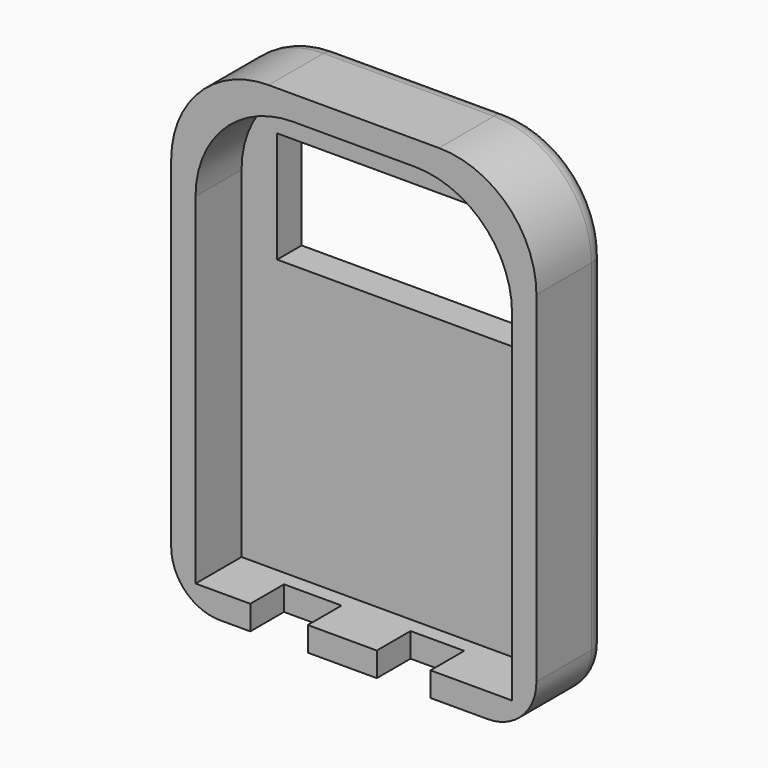
from build123d import *

# Parameters (mm, degrees)
F0_W      = 95.25
F0_H      = 127
F1_DEPTH  = 23
F2_W      = 82.55
F2_H      = 114.3
F3_DEPTH  = 15
F4_W      = 64
F4_H      = 29
F5_DEPTH  = 25.4
F6_R      = 25.4
F7_R      = 12.7
F8_R      = 5.08
F9_W      = 14
F9_H      = 11
F10_DEPTH = 12.7
F11_W     = 15
F11_H     = 11
F12_DEPTH = 12.7


with BuildPart() as f1:
    # F0 (on Front) → F1 (new body)
    with BuildSketch(Plane.XZ):
        with Locations((0, 3.175)):
            Rectangle(F0_W, F0_H)
    extrude(amount=F1_DEPTH)

    # F2 (on face) → F3 (cut)
    with BuildSketch(Plane.XZ.offset(23)):
        with Locations((0, 3.175)):
            Rectangle(F2_W, F2_H)
    extrude(amount=-F3_DEPTH, mode=Mode.SUBTRACT)

    # F4 (on face) → F5 (cut)
    with BuildSketch(Plane.XZ.offset(8)):
        with Locations((0, 31.825)):
            Rectangle(F4_W, F4_H)
    extrude(amount=-F5_DEPTH, mode=Mode.SUBTRACT)

    # F6
    f6_edges = [f1.edges().sort_by_distance(p)[0] for p in [
        (-47.625, -11.5, 66.675),
        (47.625, -11.5, 66.675),
        (41.275, -15.5, 60.325),
        (-41.275, -15.5, 60.325),
    ]]
    fillet(f6_edges, radius=F6_R)

    # F7
    f7_edges = [f1.edges().sort_by_distance(p)[0] for p in [
        (-47.625, -11.5, -60.325),
        (47.625, -11.5, -60.325),
    ]]
    fillet(f7_edges, radius=F7_R)

    # F8
    f8_edges = [f1.edges().sort_by_distance(p)[0] for p in [
        (47.625, 0, -3.175),
        (40.185512, 0, 59.235512),
        (0, 0, 66.675),
        (-40.185512, 0, 59.235512),
        (-47.625, 0, -3.175),
    ]]
    fillet(f8_edges, radius=F8_R)

    # F9 (on face) → F10 (cut)
    with BuildSketch(Plane(origin=(0, 0, -60.325), x_dir=(1, 0, 0), z_dir=(0, 0, -1))):
        with Locations((13, 17.5)):
            Rectangle(F9_W, F9_H)
    extrude(amount=-F10_DEPTH, mode=Mode.SUBTRACT)

    # F11 (on face) → F12 (cut)
    with BuildSketch(Plane(origin=(0, 0, -60.325), x_dir=(1, 0, 0), z_dir=(0, 0, -1))):
        with Locations((-19.5, 17.5)):
            Rectangle(F11_W, F11_H)
    extrude(amount=-F12_DEPTH, mode=Mode.SUBTRACT)


solid = f1.part
